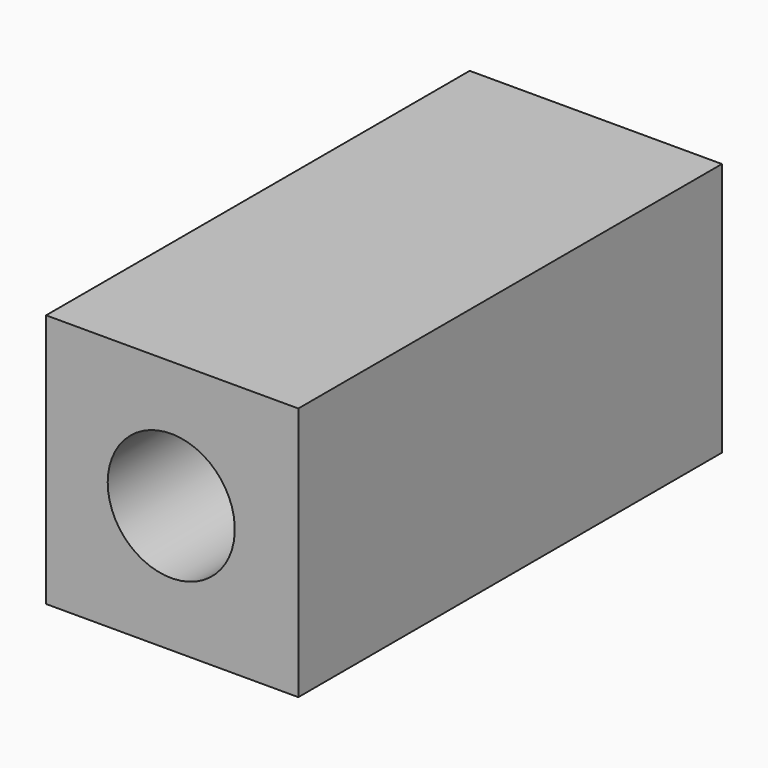
from build123d import *

# Parameters (mm, degrees)
F0_W       = 59.5488740506
F0_H       = 60
F0_R       = 15
F1_DEPTH   = 125
F2_R       = 15
F1_FACE1_W = 59.5488740506
F1_FACE1_H = 60
F3_DEPTH   = 125.001


with BuildPart() as f1:
    # F0 (on Front) → F1 (new body)
    with BuildSketch(Plane.XZ):
        with Locations((-30.2255629747, 16.9652015452)):
            Rectangle(F0_W, F0_H)
        with Locations((-30.4511259494, 16.9652015452)):
            Circle(F0_R, mode=Mode.SUBTRACT)
        with Locations((-30.4511259494, 16.9652015452)):
            Circle(F0_R)
    extrude(amount=F1_DEPTH)

    # F2 (on face) + F1_face1 (on face) → F3 (cut, through all)
    with BuildSketch(Plane(origin=(0, 0, 0), x_dir=(-1, 0, 0), z_dir=(0, 1, 0))):
        with Locations((30.4511259494, 16.9652015452)):
            Circle(F2_R)
    with BuildSketch(Plane(origin=(-30.2255629747, -125, 16.9652015452), x_dir=(1, 0, 0), z_dir=(0, -1, 0))):
        Rectangle(F1_FACE1_W, F1_FACE1_H)
    extrude(amount=-F3_DEPTH, dir=(0, 1, 0), mode=Mode.SUBTRACT)


solid = f1.part
